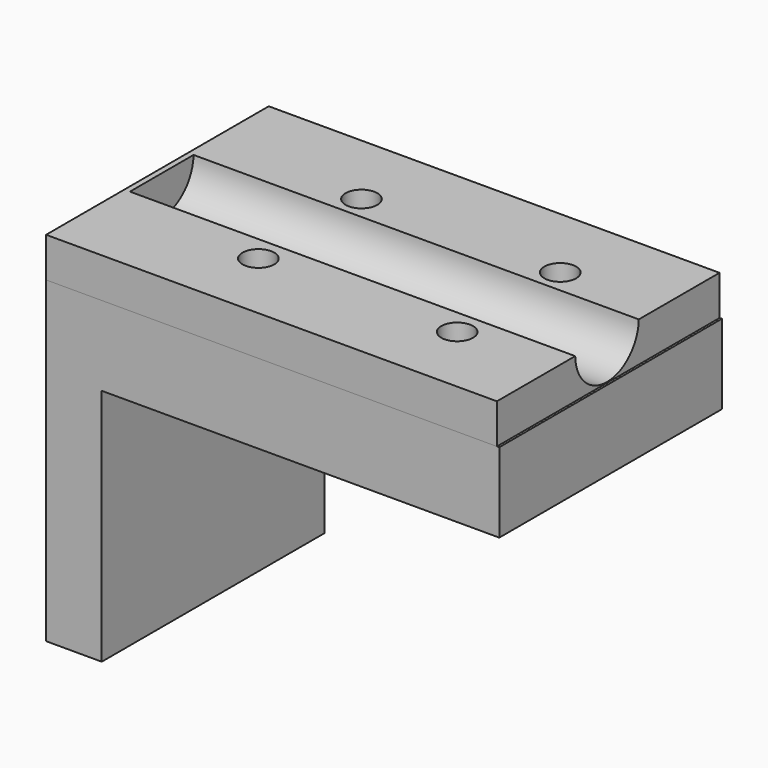
from build123d import *

# Parameters (mm, degrees)
F1_DEPTH   = 35
F2_DEPTH   = 5
F3_R       = 5
F4_DEPTH   = 56
F5_R       = 2
F6_DEPTH   = 45.001
F2_FACE1_W = 35
F2_FACE1_H = 5
F1_FACE1_W = 35
F1_FACE1_H = 40
F7_DEPTH   = 3


with BuildPart() as f1:
    # F0 (on Front) → F1 (new body)
    with BuildSketch(Plane.XZ):
        Polygon((-61.7602169514, 0), (-51.7602169514, 0), (-51.7602169514, 30), (-1.7602169514, 30), (-1.7602169514, 40.0090000596), (-2.0602179447, 40), (-61.7602169514, 40), align=None)
    extrude(amount=F1_DEPTH)


with BuildPart() as f2:
    # F2 (new): a face of the model
    f2_faces = [f1.part.faces().sort_by_distance(p)[0] for p in [
        (-31.910217448, -17.5, 40),
    ]]
    extrude(f2_faces, amount=F2_DEPTH)

    # F3 (on face) → F4 (cut)
    with BuildSketch(Plane.YZ.offset(-2.0602179447)):
        with Locations((-17.693480813, 45.095071026)):
            Circle(F3_R)
    extrude(amount=-F4_DEPTH, mode=Mode.SUBTRACT)


with BuildPart() as f6_tool:
    # F5 (on face) → F6 (new body, through all)
    with BuildSketch(Plane.XY.offset(45)):
        with Locations((-39.3220936686, -9.7157170847)):
            Circle(F5_R)
        with Locations((-14.3220936686, -9.7157170847)):
            Circle(F5_R)
        with Locations((-14.3220936686, -25.9157170847)):
            Circle(F5_R)
        with Locations((-39.3220936686, -25.9157170847)):
            Circle(F5_R)
    extrude(amount=-F6_DEPTH)


with BuildPart() as f1_1:
    add(f1.part)

    # F6: cut by f6_tool
    add(f6_tool.part, mode=Mode.SUBTRACT)


with BuildPart() as f2_1:
    add(f2.part)

    # F6: cut by f6_tool
    add(f6_tool.part, mode=Mode.SUBTRACT)


with BuildPart() as f7_tool:
    # F2_face1 (on face) + F1_face1 (on face) → F7 (new body)
    with BuildSketch(Plane(origin=(-61.7602169514, -17.5, 42.5), x_dir=(0, -1, 0), z_dir=(-1, 0, 0))):
        Rectangle(F2_FACE1_W, F2_FACE1_H)
    with BuildSketch(Plane(origin=(-61.7602169514, -17.5, 20), x_dir=(0, -1, 0), z_dir=(-1, 0, 0))):
        Rectangle(F1_FACE1_W, F1_FACE1_H)
    extrude(amount=-F7_DEPTH)


with BuildPart() as f1_2:
    add(f1_1.part)

    # F7: cut by f7_tool
    add(f7_tool.part, mode=Mode.SUBTRACT)


with BuildPart() as f2_2:
    add(f2_1.part)

    # F7: cut by f7_tool
    add(f7_tool.part, mode=Mode.SUBTRACT)


solid = Compound([f1_2.part, f2_2.part])
